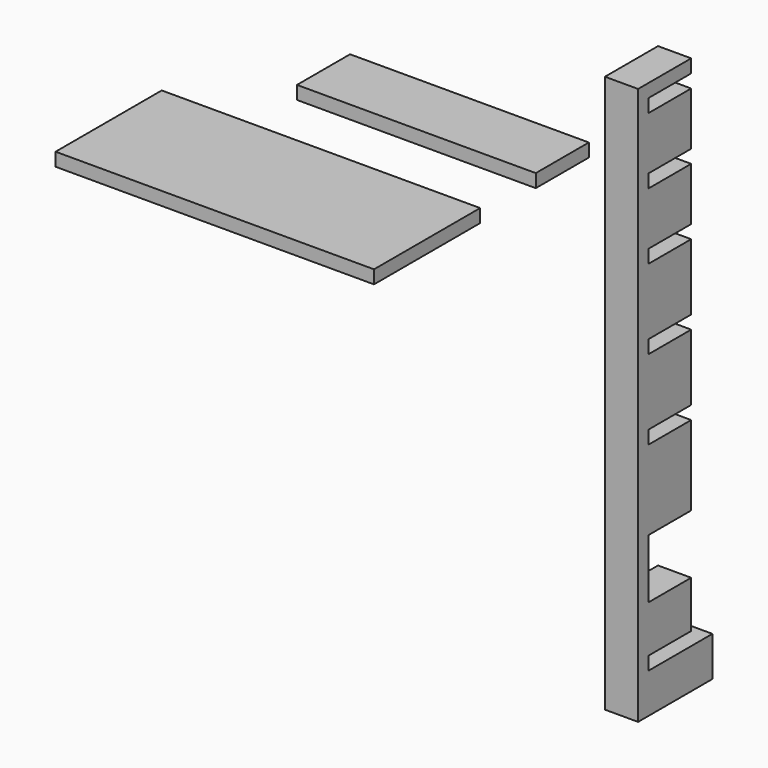
from build123d import *

# Parameters (mm, degrees)
F1_DEPTH = 63.5
F2_W     = 914.4
F2_H     = 254
F3_DEPTH = 50.8
F4_W     = 1219.2
F4_H     = 508
F5_DEPTH = 50.8


with BuildPart() as f1:
    # F0 (on Right) → F1 (new body, symmetric)
    with BuildSketch(Plane.YZ):
        Polygon((115.495482, 562.38889), (-138.504518, 562.38889), (-138.504518, -1571.21111), (217.095482, -1571.21111), (217.095482, -1418.81111), (-87.704518, -1418.81111), (-87.704518, -1368.01111), (115.495482, -1368.01111), (115.495482, -1188.363223), (-87.704518, -1188.363223), (-87.704518, -961.61111), (115.495482, -961.61111), (115.495482, -656.81111), (-87.704518, -656.81111), (-87.704518, -606.01111), (115.495482, -606.01111), (115.495482, -352.01111), (-87.704518, -352.01111), (-87.704518, -301.21111), (115.495482, -301.21111), (115.495482, -47.21111), (-87.704518, -47.21111), (-87.704518, 3.58889), (115.495482, 3.58889), (115.495482, 206.78889), (-87.704518, 206.78889), (-87.704518, 257.58889), (115.495482, 257.58889), (115.495482, 460.78889), (-87.704518, 460.78889), (-87.704518, 511.58889), (115.495482, 511.58889), align=None)
    extrude(amount=F1_DEPTH, both=True)


with BuildPart() as f3:
    # F2 (on Top) → F3 (new body)
    with BuildSketch(Plane.XY):
        with Locations((-906.186987, 139.287787)):
            Rectangle(F2_W, F2_H)
    extrude(amount=F3_DEPTH)


with BuildPart() as f5:
    # F4 (on Top) → F5 (new body)
    with BuildSketch(Plane.XY):
        with Locations((-1047.139893, -522.328769)):
            Rectangle(F4_W, F4_H)
    extrude(amount=F5_DEPTH)


solid = Compound([f1.part, f3.part, f5.part])
